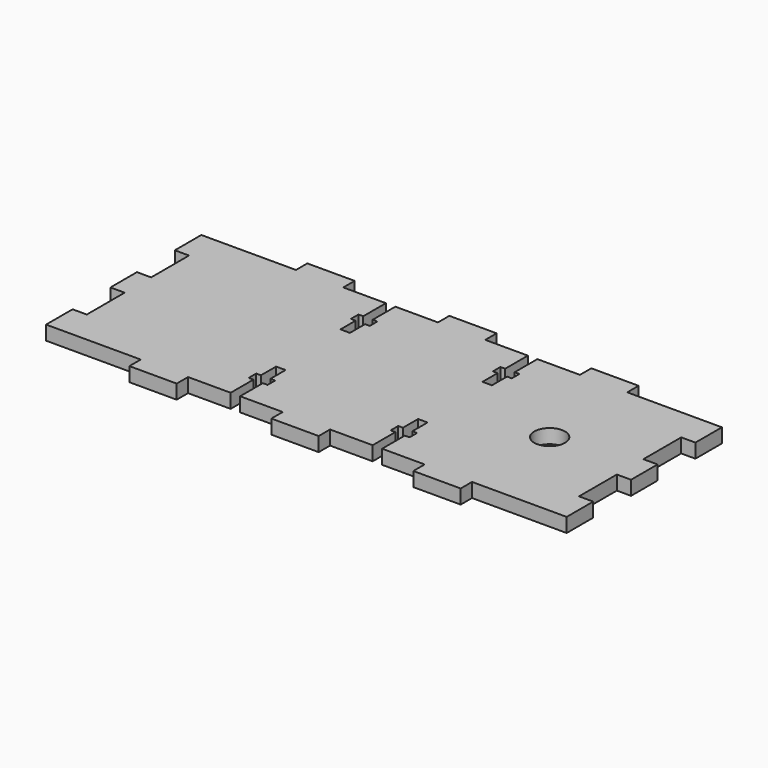
from build123d import *

# Parameters (mm, degrees)
F0_R     = 3.25
F1_DEPTH = 3


with BuildPart() as f1:
    # F0 (on Top) → F1 (new body)
    with BuildSketch(Plane.XY):
        Polygon((-90, 44), (-110, 44), (-110, 37), (-107, 37), (-107, 27), (-110, 27), (-110, 20), (-107, 20), (-107, 10), (-110, 10), (-110, 3), (-90, 3), (-90, 0), (-80, 0), (-80, 3), (-71, 3), (-71, 9), (-72, 9), (-72, 11), (-71, 11), (-71, 15), (-69, 15), (-69, 11), (-68, 11), (-68, 9), (-69, 9), (-69, 3), (-60, 3), (-60, 0), (-55, 0), (-50, 0), (-50, 3), (-41, 3), (-41, 9), (-42, 9), (-42, 11), (-41, 11), (-41, 15), (-39, 15), (-39, 11), (-38, 11), (-38, 9), (-39, 9), (-39, 3), (-30, 3), (-30, 0), (-20, 0), (-20, 3), (0, 3), (0, 10), (-3, 10), (-3, 20), (0, 20), (0, 27), (-3, 27), (-3, 37), (0, 37), (0, 44), (-20, 44), (-20, 47), (-30, 47), (-30, 44), (-39, 44), (-39, 38), (-38, 38), (-38, 36), (-39, 36), (-39, 32), (-41, 32), (-41, 36), (-42, 36), (-42, 38), (-41, 38), (-41, 44), (-50, 44), (-50, 47), (-55, 47), (-60, 47), (-60, 44), (-69, 44), (-69, 38), (-68, 38), (-68, 36), (-69, 36), (-69, 32), (-71, 32), (-71, 36), (-72, 36), (-72, 38), (-71, 38), (-71, 44), (-80, 44), (-80, 47), (-90, 47), align=None)
        with Locations((-20, 23.5)):
            Circle(F0_R, mode=Mode.SUBTRACT)
    extrude(amount=F1_DEPTH)


solid = f1.part
